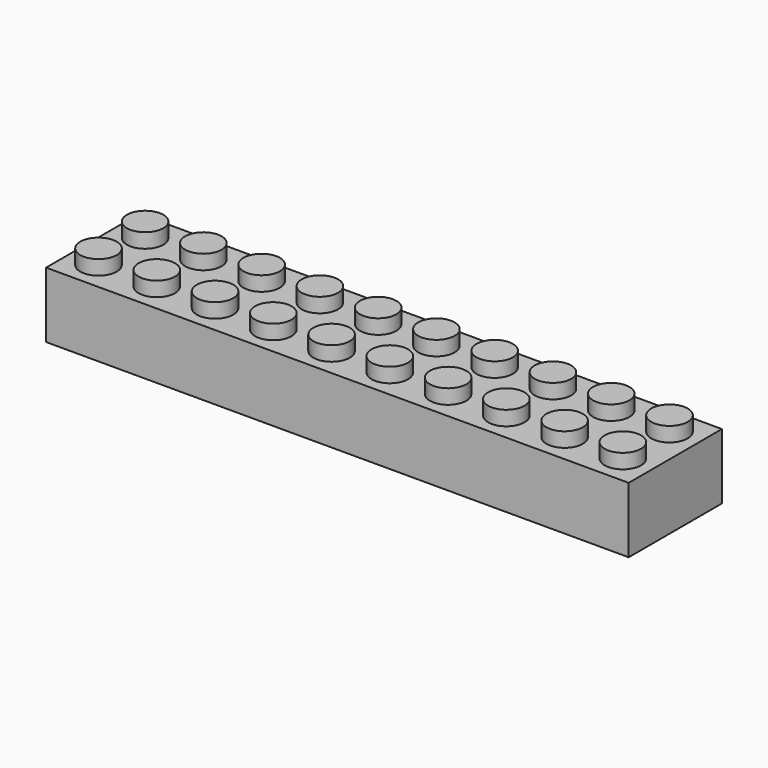
from build123d import *

# Parameters (mm, degrees)
F0_W     = 80
F0_H     = 16
F1_DEPTH = 9
F2_R     = 2.5
F3_DEPTH = 2
F4_W     = 77
F4_H     = 13
F4_R     = 3.25
F4_R_2   = 2.5
F5_DEPTH = 8
F6_R     = 1.25
F7_DEPTH = 10


with BuildPart() as f1:
    # F0 (on Top) → F1 (new body)
    with BuildSketch(Plane.XY):
        Rectangle(F0_W, F0_H)
    extrude(amount=F1_DEPTH)

    # F2 (on face) → F3 (join)
    with BuildSketch(Plane.XY.offset(9)):
        with Locations((-36, 4)):
            Circle(F2_R)
        with Locations((-36, -4)):
            Circle(F2_R)
        with Locations((-28, 4)):
            Circle(F2_R)
        with Locations((-28, -4)):
            Circle(F2_R)
        with Locations((-20, 4)):
            Circle(F2_R)
        with Locations((-20, -4)):
            Circle(F2_R)
        with Locations((-12, 4)):
            Circle(F2_R)
        with Locations((-12, -4)):
            Circle(F2_R)
        with Locations((-4, 4)):
            Circle(F2_R)
        with Locations((-4, -4)):
            Circle(F2_R)
        with Locations((4, 4)):
            Circle(F2_R)
        with Locations((4, -4)):
            Circle(F2_R)
        with Locations((12, 4)):
            Circle(F2_R)
        with Locations((12, -4)):
            Circle(F2_R)
        with Locations((20, 4)):
            Circle(F2_R)
        with Locations((20, -4)):
            Circle(F2_R)
        with Locations((28, 4)):
            Circle(F2_R)
        with Locations((28, -4)):
            Circle(F2_R)
        with Locations((36, 4)):
            Circle(F2_R)
        with Locations((36, -4)):
            Circle(F2_R)
    extrude(amount=F3_DEPTH)

    # F4 (on face) → F5 (cut)
    with BuildSketch(Plane(origin=(0, 0, 0), x_dir=(1, 0, 0), z_dir=(0, 0, -1))):
        Rectangle(F4_W, F4_H)
        with Locations((-32, 0)):
            Circle(F4_R, mode=Mode.SUBTRACT)
        with Locations((-24, 0)):
            Circle(F4_R, mode=Mode.SUBTRACT)
        with Locations((-16, 0)):
            Circle(F4_R, mode=Mode.SUBTRACT)
        with Locations((-8, 0)):
            Circle(F4_R, mode=Mode.SUBTRACT)
        Circle(F4_R, mode=Mode.SUBTRACT)
        with Locations((8, 0)):
            Circle(F4_R, mode=Mode.SUBTRACT)
        with Locations((16, 0)):
            Circle(F4_R, mode=Mode.SUBTRACT)
        with Locations((24, 0)):
            Circle(F4_R, mode=Mode.SUBTRACT)
        with Locations((32, 0)):
            Circle(F4_R, mode=Mode.SUBTRACT)
        with Locations((-32, 0)):
            Circle(F4_R_2)
        with Locations((-24, 0)):
            Circle(F4_R_2)
        with Locations((-16, 0)):
            Circle(F4_R_2)
        with Locations((-8, 0)):
            Circle(F4_R_2)
        Circle(F4_R_2)
        with Locations((8, 0)):
            Circle(F4_R_2)
        with Locations((16, 0)):
            Circle(F4_R_2)
        with Locations((24, 0)):
            Circle(F4_R_2)
        with Locations((32, 0)):
            Circle(F4_R_2)
    extrude(amount=-F5_DEPTH, mode=Mode.SUBTRACT)

    # F6 (on face) → F7 (cut)
    with BuildSketch(Plane(origin=(0, 0, 0), x_dir=(1, 0, 0), z_dir=(0, 0, -1))):
        with Locations((-36, 4)):
            Circle(F6_R)
        with Locations((-36, -4)):
            Circle(F6_R)
        with Locations((-28, 4)):
            Circle(F6_R)
        with Locations((-28, -4)):
            Circle(F6_R)
        with Locations((-20, 4)):
            Circle(F6_R)
        with Locations((-20, -4)):
            Circle(F6_R)
        with Locations((-12, 4)):
            Circle(F6_R)
        with Locations((-12, -4)):
            Circle(F6_R)
        with Locations((-4, 4)):
            Circle(F6_R)
        with Locations((-4, -4)):
            Circle(F6_R)
        with Locations((4, 4)):
            Circle(F6_R)
        with Locations((4, -4)):
            Circle(F6_R)
        with Locations((12, 4)):
            Circle(F6_R)
        with Locations((12, -4)):
            Circle(F6_R)
        with Locations((20, 4)):
            Circle(F6_R)
        with Locations((20, -4)):
            Circle(F6_R)
        with Locations((28, 4)):
            Circle(F6_R)
        with Locations((28, -4)):
            Circle(F6_R)
        with Locations((36, 4)):
            Circle(F6_R)
        with Locations((36, -4)):
            Circle(F6_R)
    extrude(amount=-F7_DEPTH, mode=Mode.SUBTRACT)


solid = f1.part
